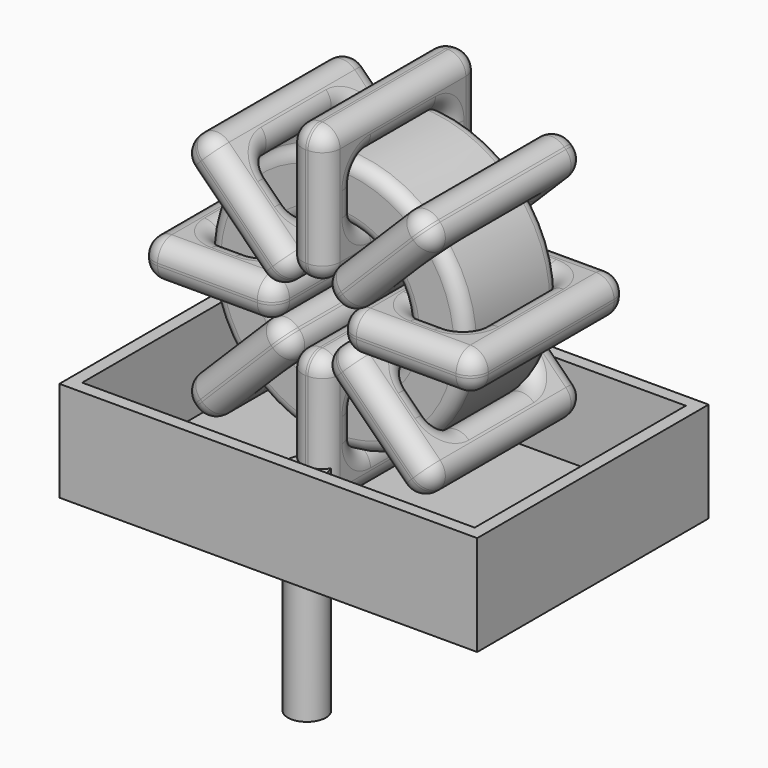
from build123d import *

# Parameters (mm, degrees)
SKETCH001_R       = 0.75
PAD001_DEPTH      = 1.5
PAD001_DEPTH_BACK = 7
SKETCH_R          = 5.104
SKETCH_R_2        = 2.751667
PAD_DEPTH         = 2.31
FILLET_R          = 0.5
SKETCH003_W       = 5.352333
SKETCH003_H       = 7.62
SKETCH003_W_2     = 2.352333
SKETCH003_H_2     = 4.62
PAD002_DEPTH      = 0.75
FILLET001_R       = 0.705
SKETCH004_W       = 5.352333
SKETCH004_H       = 7.62
SKETCH004_W_2     = 2.352333
SKETCH004_H_2     = 4.62
PAD003_DEPTH      = 0.75
FILLET002_R       = 0.705
SKETCH005_W       = 5.352333
SKETCH005_H       = 7.62
SKETCH005_W_2     = 2.352333
SKETCH005_H_2     = 4.62
PAD004_DEPTH      = 0.75
FILLET003_R       = 0.705
SKETCH006_W       = 5.352333
SKETCH006_H       = 7.62
SKETCH006_W_2     = 2.352333
SKETCH006_H_2     = 4.62
PAD005_DEPTH      = 0.75
FILLET004_R       = 0.705
SKETCH007_W       = 16.51
SKETCH007_H       = 11.43
PAD006_DEPTH      = 0.5
SKETCH008_W       = 16.51
SKETCH008_H       = 11.43
SKETCH008_W_2     = 15.51
SKETCH008_H_2     = 10.43
PAD007_DEPTH      = 3.9624


with BuildPart() as pad001:
    # Sketch001 → Pad001 (new body, two sides)
    with BuildSketch(Plane.XY.offset(2)) as pad001_sk:
        Circle(SKETCH001_R)
        with Locations((0, -7.62)):
            Circle(SKETCH001_R)
    extrude(amount=PAD001_DEPTH)
    extrude(pad001_sk.sketch, amount=-PAD001_DEPTH_BACK)


with BuildPart() as fillet_body:
    # Sketch → Pad (new body, symmetric)
    with BuildSketch(Plane.XZ.offset(3.81)):
        with Locations((0, 8.604)):
            Circle(SKETCH_R)
        with Locations((0, 8.604)):
            Circle(SKETCH_R_2, mode=Mode.SUBTRACT)
    extrude(amount=PAD_DEPTH, both=True)

    # Fillet
    fillet_edges = [fillet_body.edges().sort_by_distance(p)[0] for p in [
        (-2.751667, -6.12, 8.604),
        (-5.104, -6.12, 8.604),
        (-5.104, -1.5, 8.604),
    ]]
    fillet(fillet_edges, radius=FILLET_R)


with BuildPart() as fillet001:
    # Sketch003 → Pad002 (new body, symmetric)
    with BuildSketch(Plane(origin=(0, 0, 8.604), x_dir=(1, 0, 0), z_dir=(0, 0, -1))):
        with Locations((-3.927834, 3.81)):
            Rectangle(SKETCH003_W, SKETCH003_H)
        with Locations((-3.927834, 3.81)):
            Rectangle(SKETCH003_W_2, SKETCH003_H_2, mode=Mode.SUBTRACT)
        with Locations((3.927834, 3.81)):
            Rectangle(SKETCH003_W, SKETCH003_H)
        with Locations((3.927834, 3.81)):
            Rectangle(SKETCH003_W_2, SKETCH003_H_2, mode=Mode.SUBTRACT)
    extrude(amount=PAD002_DEPTH, both=True)

    # Fillet001
    fillet001_edges = [fillet001.edges().sort_by_distance(p)[0] for p in [
        (-2.751667, -6.12, 8.604),
        (-2.751667, -1.5, 8.604),
        (-2.751667, -3.81, 9.354),
        (-2.751667, -3.81, 7.854),
        (-6.604, -7.62, 8.604),
        (-1.251667, -7.62, 8.604),
        (-3.927833, -7.62, 9.354),
        (-3.927833, -7.62, 7.854),
        (-1.251667, 0, 8.604),
        (-1.251667, -3.81, 9.354),
        (-1.251667, -3.81, 7.854),
        (2.751667, -6.12, 8.604),
        (5.104, -6.12, 8.604),
        (3.927833, -6.12, 9.354),
        (3.927833, -6.12, 7.854),
        (5.104, -1.5, 8.604),
        (5.104, -3.81, 9.354),
        (5.104, -3.81, 7.854),
        (1.251667, -7.62, 8.604),
        (6.604, -7.62, 8.604),
        (3.927833, -7.62, 9.354),
        (3.927833, -7.62, 7.854),
        (6.604, 0, 8.604),
        (6.604, -3.81, 9.354),
        (6.604, -3.81, 7.854),
        (-5.104, -6.12, 8.604),
        (-3.927833, -6.12, 9.354),
        (-3.927833, -6.12, 7.854),
        (2.751667, -1.5, 8.604),
        (2.751667, -3.81, 9.354),
        (2.751667, -3.81, 7.854),
        (3.927833, -1.5, 9.354),
        (3.927833, -1.5, 7.854),
        (1.251667, 0, 8.604),
        (3.927833, 0, 9.354),
        (3.927833, 0, 7.854),
        (1.251667, -3.81, 9.354),
        (1.251667, -3.81, 7.854),
        (-6.604, 0, 8.604),
        (-3.927833, 0, 9.354),
        (-3.927833, 0, 7.854),
        (-6.604, -3.81, 9.354),
        (-6.604, -3.81, 7.854),
        (-5.104, -1.5, 8.604),
        (-5.104, -3.81, 9.354),
        (-5.104, -3.81, 7.854),
        (-3.927833, -1.5, 9.354),
        (-3.927833, -1.5, 7.854),
    ]]
    fillet(fillet001_edges, radius=FILLET001_R)


with BuildPart() as fillet002:
    # Sketch004 → Pad003 (new body, symmetric)
    with BuildSketch(Plane(origin=(0, 0, 8.604), x_dir=(0.707108, 0, 0.707106), z_dir=(0.707106, 0, -0.707108))):
        with Locations((-3.927834, 3.81)):
            Rectangle(SKETCH004_W, SKETCH004_H)
        with Locations((-3.927834, 3.81)):
            Rectangle(SKETCH004_W_2, SKETCH004_H_2, mode=Mode.SUBTRACT)
        with Locations((3.927834, 3.81)):
            Rectangle(SKETCH004_W, SKETCH004_H)
        with Locations((3.927834, 3.81)):
            Rectangle(SKETCH004_W_2, SKETCH004_H_2, mode=Mode.SUBTRACT)
    extrude(amount=PAD003_DEPTH, both=True)

    # Fillet002
    fillet002_edges = [fillet002.edges().sort_by_distance(p)[0] for p in [
        (-3.609077, -6.12, 4.994931),
        (-1.945724, -1.5, 6.65828),
        (-3.30773, -1.5, 6.356936),
        (-2.247071, -1.5, 5.296275),
        (-4.669739, -7.62, 3.934272),
        (-0.885063, -7.62, 7.718939),
        (-3.30773, -7.62, 6.356936),
        (-2.247071, -7.62, 5.296275),
        (-0.885063, 0, 7.718939),
        (-1.415392, -3.81, 8.24927),
        (-0.354734, -3.81, 7.188608),
        (1.945724, -6.12, 10.54972),
        (3.609077, -6.12, 12.213069),
        (2.247071, -6.12, 11.911725),
        (3.30773, -6.12, 10.851064),
        (3.609077, -1.5, 12.213069),
        (3.078748, -3.81, 12.7434),
        (4.139407, -3.81, 11.682738),
        (0.885063, -7.62, 9.489061),
        (4.669739, -7.62, 13.273728),
        (2.247071, -7.62, 11.911725),
        (3.30773, -7.62, 10.851064),
        (4.669739, 0, 13.273728),
        (4.139409, -3.81, 13.804058),
        (5.200068, -3.81, 12.743397),
        (-3.609077, -1.5, 4.994931),
        (-4.139407, -3.81, 5.525262),
        (-3.078748, -3.81, 4.4646),
        (1.945724, -1.5, 10.54972),
        (1.415395, -3.81, 11.080051),
        (2.476054, -3.81, 10.019389),
        (2.247071, -1.5, 11.911725),
        (3.30773, -1.5, 10.851064),
        (0.885063, 0, 9.489061),
        (2.247071, 0, 11.911725),
        (3.30773, 0, 10.851064),
        (0.354734, -3.81, 10.019392),
        (1.415392, -3.81, 8.95873),
        (-4.669739, 0, 3.934272),
        (-3.30773, 0, 6.356936),
        (-2.247071, 0, 5.296275),
        (-5.200068, -3.81, 4.464603),
        (-4.139409, -3.81, 3.403942),
        (-1.945724, -6.12, 6.65828),
        (-3.30773, -6.12, 6.356936),
        (-2.247071, -6.12, 5.296275),
        (-2.476054, -3.81, 7.188611),
        (-1.415395, -3.81, 6.127949),
    ]]
    fillet(fillet002_edges, radius=FILLET002_R)


with BuildPart() as fillet003:
    # Sketch005 → Pad004 (new body, symmetric)
    with BuildSketch(Plane(origin=(0, 0, 8.604), x_dir=(0.707108, 0, -0.707106), z_dir=(-0.707106, 0, -0.707108))):
        with Locations((-3.927834, 3.81)):
            Rectangle(SKETCH005_W, SKETCH005_H)
        with Locations((-3.927834, 3.81)):
            Rectangle(SKETCH005_W_2, SKETCH005_H_2, mode=Mode.SUBTRACT)
        with Locations((3.927834, 3.81)):
            Rectangle(SKETCH005_W, SKETCH005_H)
        with Locations((3.927834, 3.81)):
            Rectangle(SKETCH005_W_2, SKETCH005_H_2, mode=Mode.SUBTRACT)
    extrude(amount=PAD004_DEPTH, both=True)

    # Fillet003
    fillet003_edges = [fillet003.edges().sort_by_distance(p)[0] for p in [
        (-3.609077, -6.12, 12.213069),
        (-1.945724, -1.5, 10.54972),
        (-2.247071, -1.5, 11.911725),
        (-3.30773, -1.5, 10.851064),
        (-4.669739, -7.62, 13.273728),
        (-4.669739, 0, 13.273728),
        (-4.139409, -3.81, 13.804058),
        (-5.200068, -3.81, 12.743397),
        (-0.885063, -7.62, 9.489061),
        (-2.247071, 0, 11.911725),
        (-3.30773, 0, 10.851064),
        (1.945724, -6.12, 6.65828),
        (3.609077, -6.12, 4.994931),
        (3.30773, -6.12, 6.356936),
        (2.247071, -6.12, 5.296275),
        (3.609077, -1.5, 4.994931),
        (4.139407, -3.81, 5.525262),
        (3.078748, -3.81, 4.4646),
        (0.885063, -7.62, 7.718939),
        (4.669739, -7.62, 3.934272),
        (3.30773, -7.62, 6.356936),
        (2.247071, -7.62, 5.296275),
        (4.669739, 0, 3.934272),
        (5.200068, -3.81, 4.464603),
        (4.139409, -3.81, 3.403942),
        (-3.609077, -1.5, 12.213069),
        (-3.078748, -3.81, 12.7434),
        (-4.139407, -3.81, 11.682738),
        (1.945724, -1.5, 6.65828),
        (2.476054, -3.81, 7.188611),
        (1.415395, -3.81, 6.127949),
        (3.30773, -1.5, 6.356936),
        (2.247071, -1.5, 5.296275),
        (0.885063, 0, 7.718939),
        (3.30773, 0, 6.356936),
        (2.247071, 0, 5.296275),
        (1.415392, -3.81, 8.24927),
        (0.354734, -3.81, 7.188608),
        (-0.885063, 0, 9.489061),
        (-0.354734, -3.81, 10.019392),
        (-1.415392, -3.81, 8.95873),
        (-2.247071, -7.62, 11.911725),
        (-3.30773, -7.62, 10.851064),
        (-1.945724, -6.12, 10.54972),
        (-2.247071, -6.12, 11.911725),
        (-3.30773, -6.12, 10.851064),
        (-1.415395, -3.81, 11.080051),
        (-2.476054, -3.81, 10.019389),
    ]]
    fillet(fillet003_edges, radius=FILLET003_R)


with BuildPart() as fillet004:
    # Sketch006 → Pad005 (new body, symmetric)
    with BuildSketch(Plane(origin=(0, 0, 8.604), x_dir=(0, 0, 1), z_dir=(1, 0, 0))):
        with Locations((-3.927834, 3.81)):
            Rectangle(SKETCH006_W, SKETCH006_H)
        with Locations((-3.927834, 3.81)):
            Rectangle(SKETCH006_W_2, SKETCH006_H_2, mode=Mode.SUBTRACT)
        with Locations((3.927834, 3.81)):
            Rectangle(SKETCH006_W, SKETCH006_H)
        with Locations((3.927834, 3.81)):
            Rectangle(SKETCH006_W_2, SKETCH006_H_2, mode=Mode.SUBTRACT)
    extrude(amount=PAD005_DEPTH, both=True)

    # Fillet004
    fillet004_edges = [fillet004.edges().sort_by_distance(p)[0] for p in [
        (0, -6.12, 13.708),
        (0, -1.5, 13.708),
        (-0.75, -3.81, 13.708),
        (0.75, -3.81, 13.708),
        (0, 0, 15.208),
        (0, 0, 9.855667),
        (-0.75, 0, 12.531833),
        (0.75, 0, 12.531833),
        (0, -7.62, 9.855667),
        (-0.75, -3.81, 9.855667),
        (0.75, -3.81, 9.855667),
        (0, -6.12, 3.5),
        (0, -6.12, 5.852333),
        (-0.75, -6.12, 4.676167),
        (0.75, -6.12, 4.676167),
        (0, -1.5, 5.852333),
        (-0.75, -3.81, 5.852333),
        (0.75, -3.81, 5.852333),
        (0, 0, 7.352333),
        (0, 0, 2),
        (-0.75, 0, 4.676167),
        (0.75, 0, 4.676167),
        (0, -7.62, 2),
        (-0.75, -3.81, 2),
        (0.75, -3.81, 2),
        (0, -6.12, 11.355667),
        (-0.75, -6.12, 12.531833),
        (0.75, -6.12, 12.531833),
        (0, -1.5, 3.5),
        (-0.75, -3.81, 3.5),
        (0.75, -3.81, 3.5),
        (-0.75, -1.5, 4.676167),
        (0.75, -1.5, 4.676167),
        (0, -7.62, 7.352333),
        (-0.75, -7.62, 4.676167),
        (0.75, -7.62, 4.676167),
        (-0.75, -3.81, 7.352333),
        (0.75, -3.81, 7.352333),
        (0, -7.62, 15.208),
        (-0.75, -7.62, 12.531833),
        (0.75, -7.62, 12.531833),
        (-0.75, -3.81, 15.208),
        (0.75, -3.81, 15.208),
        (0, -1.5, 11.355667),
        (-0.75, -3.81, 11.355667),
        (0.75, -3.81, 11.355667),
        (-0.75, -1.5, 12.531833),
        (0.75, -1.5, 12.531833),
    ]]
    fillet(fillet004_edges, radius=FILLET004_R)


with BuildPart() as pad006:
    # Sketch007 → Pad006 (new body)
    with BuildSketch(Plane.XY.offset(0.5)):
        with Locations((0, -3.81)):
            Rectangle(SKETCH007_W, SKETCH007_H)
    extrude(amount=PAD006_DEPTH)


with BuildPart() as pad007:
    # Sketch008 → Pad007 (new body)
    with BuildSketch(Plane.XY.offset(0.5)):
        with Locations((0, -3.81)):
            Rectangle(SKETCH008_W, SKETCH008_H)
        with Locations((0, -3.81)):
            Rectangle(SKETCH008_W_2, SKETCH008_H_2, mode=Mode.SUBTRACT)
    extrude(amount=PAD007_DEPTH)


solid = Compound([pad001.part, fillet_body.part, fillet001.part, fillet002.part, fillet003.part, fillet004.part, pad006.part, pad007.part])
